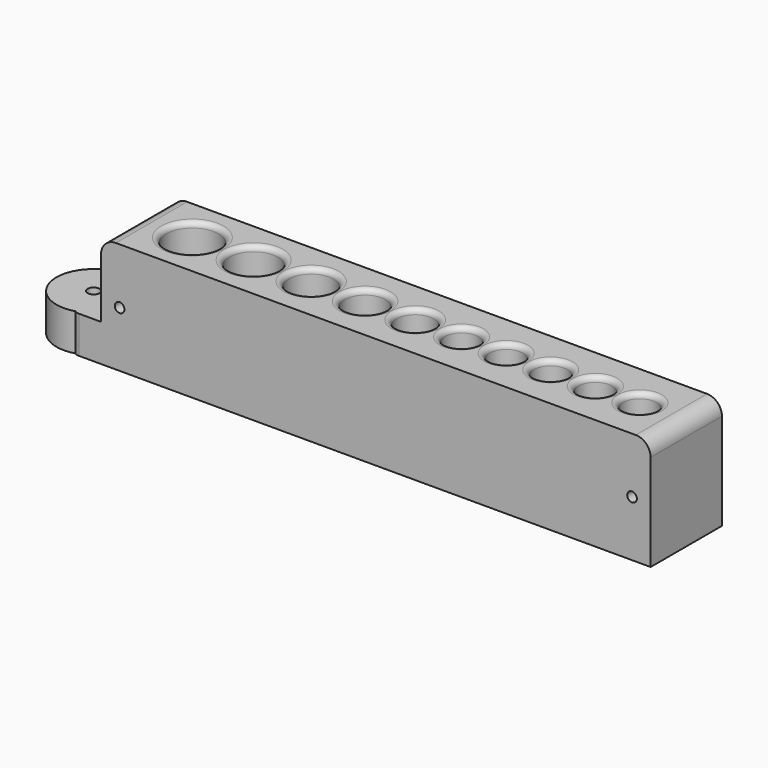
from build123d import *

# Parameters (mm, degrees)
TUBE009_R         = 10
TUBE009_R_2       = 1.6
TUBE009_DEPTH     = 10
BOX026_W          = 10
BOX026_H          = 24
BOX026_DEPTH      = 10
FILLET118_R       = 2
CHAMFER031_SIZE   = 4
FILLET119_R       = 2
FILLET120_R       = 10
CHAMFER032_SIZE   = 2
CYLINDER073_R     = 4.5
CYLINDER073_DEPTH = 30
FILLET117_R       = 4.4
CYLINDER072_R     = 4.5
CYLINDER072_DEPTH = 30
FILLET116_R       = 4.4
CYLINDER071_R     = 4.5
CYLINDER071_DEPTH = 30
FILLET115_R       = 4.4
CYLINDER070_R     = 4.5
CYLINDER070_DEPTH = 30
FILLET114_R       = 4.4
CYLINDER069_R     = 5
CYLINDER069_DEPTH = 30
FILLET113_R       = 4.9
CYLINDER068_R     = 5.5
CYLINDER068_DEPTH = 30
FILLET112_R       = 5.4
CYLINDER067_R     = 6
CYLINDER067_DEPTH = 30
FILLET111_R       = 5.9
CYLINDER066_R     = 6.5
CYLINDER066_DEPTH = 30
FILLET110_R       = 6.4
CYLINDER065_R     = 7
CYLINDER065_DEPTH = 30
FILLET109_R       = 6.9
CYLINDER075_R     = 1.3
CYLINDER075_DEPTH = 25
CYLINDER074_R     = 1.3
CYLINDER074_DEPTH = 25
CYLINDER076_R     = 4.5
CYLINDER076_DEPTH = 30
FILLET122_R       = 4.4
BOX028_W          = 148
BOX028_H          = 24
BOX028_DEPTH      = 30
FILLET123_R       = 4
FILLET124_R       = 1.4


with BuildPart() as tube009:
    # Tube009 → Tube009 (new body)
    with BuildSketch(Plane(origin=(-28, -2, 0), x_dir=(1, 0, 0), z_dir=(0, 0, 1))):
        Circle(TUBE009_R)
        Circle(TUBE009_R_2, mode=Mode.SUBTRACT)
    extrude(amount=TUBE009_DEPTH)


with BuildPart() as chamfer032:
    # Box026 → Box026 (new body)
    with BuildSketch(Plane(origin=(-26, -12, 0), x_dir=(1, 0, 0), z_dir=(0, 0, 1))):
        with Locations((5, 12)):
            Rectangle(BOX026_W, BOX026_H)
    extrude(amount=BOX026_DEPTH)

    # Fillet118
    fillet118_edges = [chamfer032.edges().sort_by_distance(p)[0] for p in [
        (-26, -12, 5),
    ]]
    fillet(fillet118_edges, radius=FILLET118_R)

    # Chamfer031
    chamfer031_edges = [chamfer032.edges().sort_by_distance(p)[0] for p in [
        (-26, 12, 5),
    ]]
    chamfer(chamfer031_edges, length=CHAMFER031_SIZE)

    # Fillet119
    fillet119_edges = [chamfer032.edges().sort_by_distance(p)[0] for p in [
        (-26, 8, 5),
    ]]
    fillet(fillet119_edges, radius=FILLET119_R)

    # Fillet120
    fillet120_edges = [chamfer032.edges().sort_by_distance(p)[0] for p in [
        (-22, 12, 5),
    ]]
    fillet(fillet120_edges, radius=FILLET120_R)

    # Fusion046: union Tube009
    add(tube009.part)

    # Chamfer032
    chamfer032_edges = [chamfer032.edges().sort_by_distance(p)[0] for p in [
        (-29.6, -2, 0),
    ]]
    chamfer(chamfer032_edges, length=CHAMFER032_SIZE)


with BuildPart() as fillet118:
    # Cylinder073 → Cylinder073 (new body)
    with BuildSketch(Plane(origin=(105.5, 0, 2), x_dir=(1, 0, 0), z_dir=(0, 0, 1))):
        Circle(CYLINDER073_R)
    extrude(amount=CYLINDER073_DEPTH)

    # Fillet117
    fillet117_edges = [fillet118.edges().sort_by_distance(p)[0] for p in [
        (101, 0, 2),
    ]]
    fillet(fillet117_edges, radius=FILLET117_R)


with BuildPart() as fillet117:
    # Cylinder072 → Cylinder072 (new body)
    with BuildSketch(Plane(origin=(93.5, 0, 2), x_dir=(1, 0, 0), z_dir=(0, 0, 1))):
        Circle(CYLINDER072_R)
    extrude(amount=CYLINDER072_DEPTH)

    # Fillet116
    fillet116_edges = [fillet117.edges().sort_by_distance(p)[0] for p in [
        (89, 0, 2),
    ]]
    fillet(fillet116_edges, radius=FILLET116_R)


with BuildPart() as fillet116:
    # Cylinder071 → Cylinder071 (new body)
    with BuildSketch(Plane(origin=(81.5, 0, 2), x_dir=(1, 0, 0), z_dir=(0, 0, 1))):
        Circle(CYLINDER071_R)
    extrude(amount=CYLINDER071_DEPTH)

    # Fillet115
    fillet115_edges = [fillet116.edges().sort_by_distance(p)[0] for p in [
        (77, 0, 2),
    ]]
    fillet(fillet115_edges, radius=FILLET115_R)


with BuildPart() as fillet115:
    # Cylinder070 → Cylinder070 (new body)
    with BuildSketch(Plane(origin=(69.5, 0, 2), x_dir=(1, 0, 0), z_dir=(0, 0, 1))):
        Circle(CYLINDER070_R)
    extrude(amount=CYLINDER070_DEPTH)

    # Fillet114
    fillet114_edges = [fillet115.edges().sort_by_distance(p)[0] for p in [
        (65, 0, 2),
    ]]
    fillet(fillet114_edges, radius=FILLET114_R)


with BuildPart() as fillet114:
    # Cylinder069 → Cylinder069 (new body)
    with BuildSketch(Plane(origin=(57, 0, 2), x_dir=(1, 0, 0), z_dir=(0, 0, 1))):
        Circle(CYLINDER069_R)
    extrude(amount=CYLINDER069_DEPTH)

    # Fillet113
    fillet113_edges = [fillet114.edges().sort_by_distance(p)[0] for p in [
        (52, 0, 2),
    ]]
    fillet(fillet113_edges, radius=FILLET113_R)


with BuildPart() as fillet113:
    # Cylinder068 → Cylinder068 (new body)
    with BuildSketch(Plane(origin=(43.5, 0, 2), x_dir=(1, 0, 0), z_dir=(0, 0, 1))):
        Circle(CYLINDER068_R)
    extrude(amount=CYLINDER068_DEPTH)

    # Fillet112
    fillet112_edges = [fillet113.edges().sort_by_distance(p)[0] for p in [
        (38, 0, 2),
    ]]
    fillet(fillet112_edges, radius=FILLET112_R)


with BuildPart() as fillet112:
    # Cylinder067 → Cylinder067 (new body)
    with BuildSketch(Plane(origin=(29, 0, 2), x_dir=(1, 0, 0), z_dir=(0, 0, 1))):
        Circle(CYLINDER067_R)
    extrude(amount=CYLINDER067_DEPTH)

    # Fillet111
    fillet111_edges = [fillet112.edges().sort_by_distance(p)[0] for p in [
        (23, 0, 2),
    ]]
    fillet(fillet111_edges, radius=FILLET111_R)


with BuildPart() as fillet111:
    # Cylinder066 → Cylinder066 (new body)
    with BuildSketch(Plane(origin=(13.5, 0, 2), x_dir=(1, 0, 0), z_dir=(0, 0, 1))):
        Circle(CYLINDER066_R)
    extrude(amount=CYLINDER066_DEPTH)

    # Fillet110
    fillet110_edges = [fillet111.edges().sort_by_distance(p)[0] for p in [
        (7, 0, 2),
    ]]
    fillet(fillet110_edges, radius=FILLET110_R)


with BuildPart() as fillet110:
    # Cylinder065 → Cylinder065 (new body)
    with BuildSketch(Plane(origin=(-3, 0, 2), x_dir=(1, 0, 0), z_dir=(0, 0, 1))):
        Circle(CYLINDER065_R)
    extrude(amount=CYLINDER065_DEPTH)

    # Fillet109
    fillet109_edges = [fillet110.edges().sort_by_distance(p)[0] for p in [
        (-10, 0, 2),
    ]]
    fillet(fillet109_edges, radius=FILLET109_R)


with BuildPart() as obj1:
    # Cylinder075 → Cylinder075 (new body)
    with BuildSketch(Plane(origin=(125, -20, 15), x_dir=(1, 0, 0), z_dir=(0, 1, 0))):
        Circle(CYLINDER075_R)
    extrude(amount=CYLINDER075_DEPTH)


with BuildPart() as fusion043:
    # Cylinder074 → Cylinder074 (new body)
    with BuildSketch(Plane(origin=(-13, -20, 15), x_dir=(1, 0, 0), z_dir=(0, 1, 0))):
        Circle(CYLINDER074_R)
    extrude(amount=CYLINDER074_DEPTH)

    # Fusion043: union obj1
    add(obj1.part)


with BuildPart() as fusion047:
    # Cylinder076 → Cylinder076 (new body)
    with BuildSketch(Plane(origin=(117.5, 0, 2), x_dir=(1, 0, 0), z_dir=(0, 0, 1))):
        Circle(CYLINDER076_R)
    extrude(amount=CYLINDER076_DEPTH)

    # Fillet122
    fillet122_edges = [fusion047.edges().sort_by_distance(p)[0] for p in [
        (113, 0, 2),
    ]]
    fillet(fillet122_edges, radius=FILLET122_R)

    # Fusion047: union Fillet118, Fillet117, Fillet116, Fillet115, Fillet114, Fillet113, Fillet112, Fillet111, Fillet110, Fusion043
    add(fillet118.part)
    add(fillet117.part)
    add(fillet116.part)
    add(fillet115.part)
    add(fillet114.part)
    add(fillet113.part)
    add(fillet112.part)
    add(fillet111.part)
    add(fillet110.part)
    add(fusion043.part)


with BuildPart() as obj2:
    # Box028 → Box028 (new body)
    with BuildSketch(Plane(origin=(-18, -12, 0), x_dir=(1, 0, 0), z_dir=(0, 0, 1))):
        with Locations((74, 12)):
            Rectangle(BOX028_W, BOX028_H)
    extrude(amount=BOX028_DEPTH)

    # Fillet123
    fillet123_edges = [obj2.edges().sort_by_distance(p)[0] for p in [
        (-18, 0, 30),
        (130, 0, 30),
    ]]
    fillet(fillet123_edges, radius=FILLET123_R)

    # Cut015: cut Fusion047
    add(fusion047.part, mode=Mode.SUBTRACT)

    # Fillet124
    fillet124_edges = [obj2.edges().sort_by_distance(p)[0] for p in [
        (-10, 0, 30),
        (7, 0, 30),
        (23, 0, 30),
        (38, 0, 30),
        (52, 0, 30),
        (65, 0, 30),
        (77, 0, 30),
        (89, 0, 30),
        (101, 0, 30),
        (113, 0, 30),
    ]]
    fillet(fillet124_edges, radius=FILLET124_R)

    # Fusion048: union Chamfer032
    add(chamfer032.part)


with BuildPart() as obj2_1:
    # Fusion048 placement: moved
    add(obj2.part.moved(Location((0, 16, 0))))


solid = obj2_1.part
